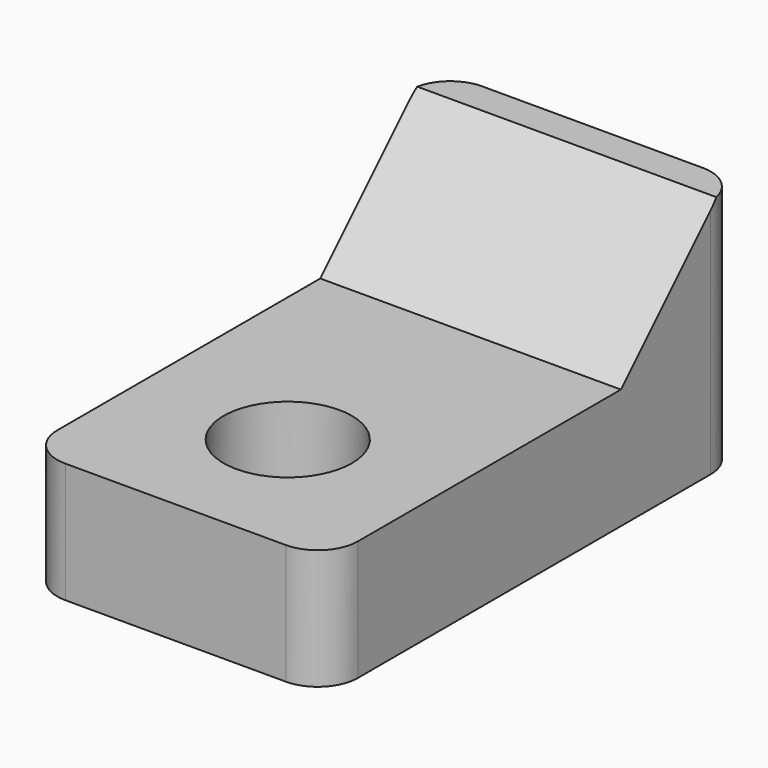
from build123d import *

# Parameters (mm, degrees)
F0_W     = 7.5
F0_H     = 13
F0_R     = 3
F0_R_2   = 1.6
F1_DEPTH = 3
F3_DEPTH = 1
F4_DEPTH = 7.5
F5_R     = 1


with BuildPart() as f1:
    # F0 (on Top) → F1 (new body)
    with BuildSketch(Plane.XY):
        Rectangle(F0_W, F0_H)
        with Locations((0, -3)):
            Circle(F0_R, mode=Mode.SUBTRACT)
        with Locations((0, -3)):
            Circle(F0_R)
        with Locations((0, -3)):
            Circle(F0_R_2, mode=Mode.SUBTRACT)
    extrude(amount=F1_DEPTH)

    # F0 (on Top) → F3 (cut)
    with BuildSketch(Plane.XY):
        with Locations((0, -3)):
            Circle(F0_R)
        with Locations((0, -3)):
            Circle(F0_R_2, mode=Mode.SUBTRACT)
    extrude(amount=F3_DEPTH, mode=Mode.SUBTRACT)

    # F2 (on face) → F4 (join, through all)
    with BuildSketch(Plane.YZ.offset(3.75)):
        Polygon((2.7, 3), (6.5, 3), (6.5, 6), (5.7, 6), align=None)
    extrude(amount=-F4_DEPTH)

    # F5
    f5_edges = [f1.edges().sort_by_distance(p)[0] for p in [
        (3.75, -6.5, 1.5),
        (-3.75, -6.5, 1.5),
        (3.75, 6.5, 3),
        (-3.75, 6.5, 3),
    ]]
    fillet(f5_edges, radius=F5_R)


solid = f1.part
